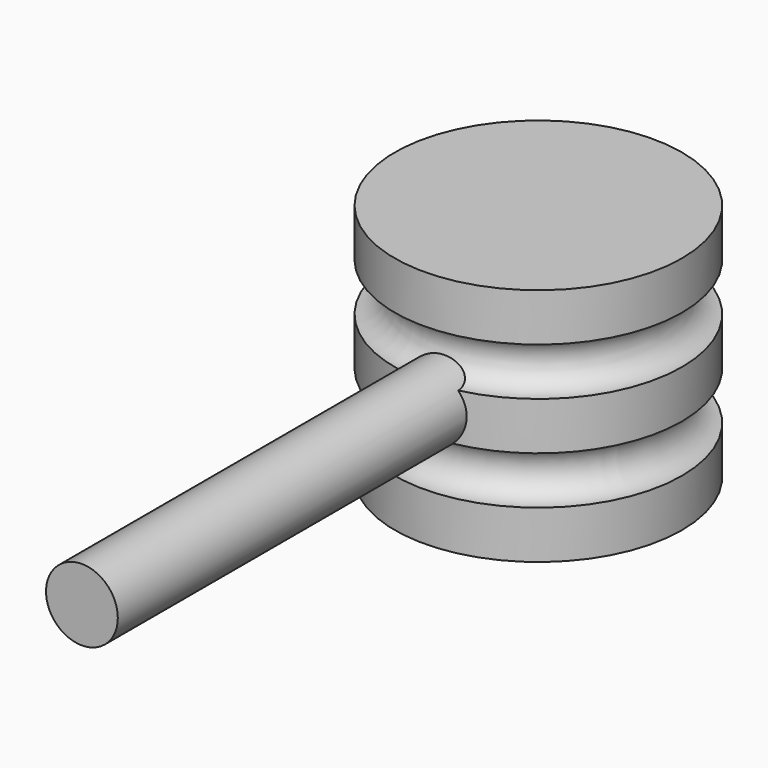
from build123d import *

# Parameters (mm, degrees)
F2_R     = 19.05
F3_DEPTH = 304.8


with BuildPart() as f1:
    # F0 (on Front) → F1 (revolve)
    with BuildSketch(Plane.XZ):
        with BuildLine():
            Line((-38.190931, -0.763819), (38.009069, -0.763819))
            Line((38.009069, -0.763819), (38.009069, 24.636181))
            ThreePointArc((38.009069, 24.636181), (25.309069, 37.336181), (38.009069, 50.036181))
            Line((38.009069, 50.036181), (38.009069, 75.436181))
            ThreePointArc((38.009069, 75.436181), (25.309069, 88.136181), (38.009069, 100.836181))
            Line((38.009069, 100.836181), (38.009069, 126.236181))
            Line((38.009069, 126.236181), (-38.190931, 126.236181))
            Line((-38.190931, 126.236181), (-38.190931, -0.763819))
        make_face()
    revolve(axis=Axis((-38.190931, 0, 62.736181), (0, 0, 1)))

    # F2 (on Front) → F3 (join)
    with BuildSketch(Plane.XZ):
        with Locations((-36.597256, 64.08006)):
            Circle(F2_R)
    extrude(amount=F3_DEPTH)


solid = f1.part
